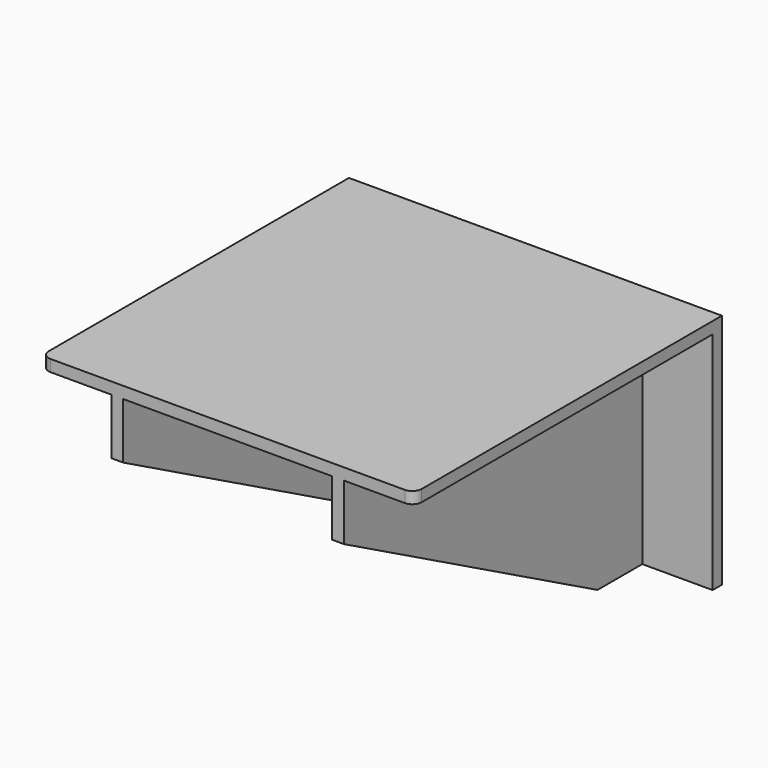
from build123d import *

# Parameters (mm, degrees)
F0_W     = 254
F0_H     = 161.29
F1_DEPTH = 7.9375
F2_W     = 254
F2_H     = 7.9375
F3_DEPTH = 254
F6_W     = 7.9375
F6_H     = 153.3525
F7_DEPTH = 254
F9_DEPTH = 206.09914
F10_R    = 6.35


with BuildPart() as f1:
    # F0 (on Front) → F1 (new body)
    with BuildSketch(Plane.XZ):
        Rectangle(F0_W, F0_H)
    extrude(amount=F1_DEPTH)

    # F2 (on face) → F3 (join)
    with BuildSketch(Plane.XZ.offset(7.9375)):
        with Locations((0, 76.67625)):
            Rectangle(F2_W, F2_H)
    extrude(amount=F3_DEPTH)

    # F6 (on face) → F7 (join, through all)
    with BuildSketch(Plane.XZ.offset(7.9375)):
        with Locations((-75.12939, -3.96875)):
            Rectangle(F6_W, F6_H)
        with Locations((75.12939, -3.96875)):
            Rectangle(F6_W, F6_H)
    extrude(amount=F7_DEPTH)

    # F8 (on face) → F9 (cut, through all)
    with BuildSketch(Plane(origin=(-79.09814, 0, 0), x_dir=(0, -1, 0), z_dir=(-1, 0, 0))):
        Polygon((261.9375, -80.645), (261.9375, 34.6075), (46.0375, -80.645), align=None)
    extrude(amount=-F9_DEPTH, mode=Mode.SUBTRACT)

    # F10
    f10_edges = [f1.edges().sort_by_distance(p)[0] for p in [
        (-127, -261.9375, 76.67625),
        (127, -261.9375, 76.67625),
    ]]
    fillet(f10_edges, radius=F10_R)


solid = f1.part
